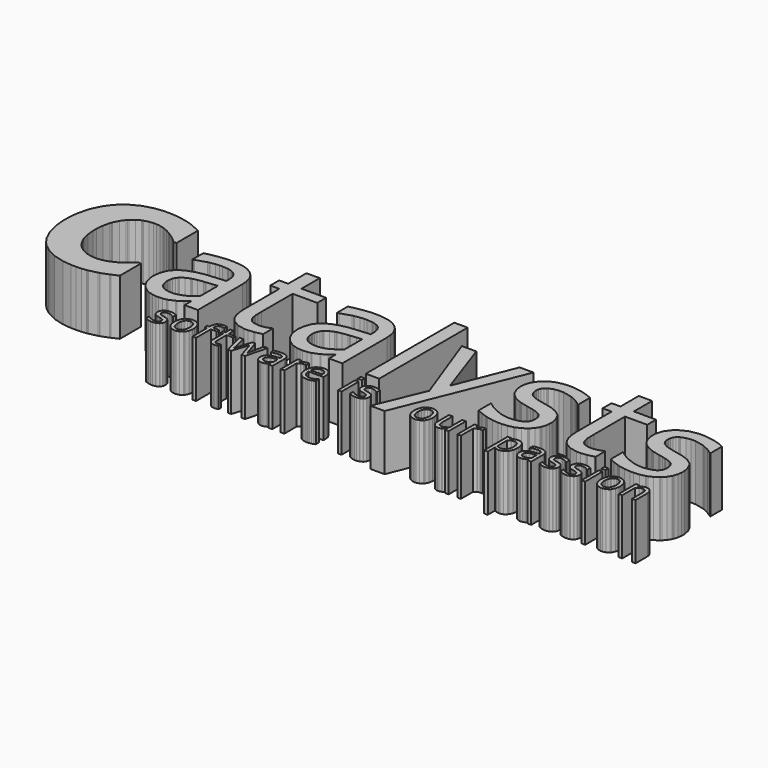
from build123d import *

# Parameters (mm, degrees)
F0_W     = 1.64973
F0_H     = 9.807473
F0_W_2   = 6.118606
F0_H_2   = 50.487123
F0_W_3   = 1.87833
F0_H_3   = 1.712899
F0_W_4   = 1.651
F0_W_5   = 1.8796
F1_DEPTH = 25.4


with BuildPart() as f1:
    # F0 (on Top) → F1 (new body)
    with BuildSketch(Plane.XY):
        Polygon((-6.717741, -11.888368), (-6.592265, -11.798706), (-6.592265, -15.650286), (-0.519125, -15.650286), (-0.519125, 9.140546), (-0.519125, 9.927692), (-0.760425, 12.28532), (-1.328115, 14.52179), (-1.491945, 14.917268), (-1.651965, 15.31427), (-2.711653, 17.0656), (-4.110431, 18.52229), (-4.438345, 18.770448), (-4.778959, 19.025464), (-6.611569, 20.0628), (-8.615375, 20.782128), (-9.039809, 20.878902), (-9.470847, 20.980756), (-11.900357, 21.32645), (-14.480235, 21.46742), (-15.338501, 21.46742), (-16.766235, 21.46742), (-21.049437, 20.980756), (-21.570137, 20.878902), (-22.097949, 20.782128), (-24.358041, 20.320864), (-26.119023, 19.892112), (-26.396137, 19.812102), (-26.396137, 13.627456), (-26.057047, 13.627456), (-25.581559, 13.82583), (-20.823123, 15.338908), (-20.346365, 15.439746), (-19.871131, 15.548458), (-17.678603, 15.919298), (-15.958769, 16.074746), (-15.384221, 16.074746), (-14.583359, 16.074746), (-12.177471, 15.887548), (-11.893499, 15.84767), (-11.616385, 15.808808), (-10.347401, 15.4781), (-9.237929, 14.97645), (-9.039809, 14.851228), (-8.846769, 14.732864), (-8.004759, 13.98712), (-7.333691, 13.050114), (-7.225995, 12.833706), (-7.118553, 12.613234), (-6.748221, 11.305642), (-6.592265, 9.851746), (-6.592265, 9.366606), (-6.592265, 8.1883), (-7.391603, 8.149946), (-14.852091, 7.487006), (-15.542463, 7.396074), (-16.234359, 7.312), (-19.417741, 6.654648), (-22.238665, 5.702402), (-22.748443, 5.469484), (-23.160431, 5.283556), (-24.350929, 4.62468), (-25.723545, 3.646272), (-26.866037, 2.53299), (-27.579523, 1.609446), (-27.778151, 1.278992), (-28.040025, 0.836524), (-28.963315, -1.648104), (-29.365651, -4.263542), (-29.365651, -5.135778), (-29.365651, -5.729884), (-29.145179, -7.514234), (-28.628543, -9.395358), (-28.480969, -9.759086), (-28.334919, -10.127132), (-27.459635, -11.782196), (-26.390549, -13.200278), (-26.146709, -13.449706), (-25.892963, -13.704468), (-24.499773, -14.808327), (-22.947071, -15.672359), (-22.611791, -15.808808), (-22.278543, -15.949346), (-20.542199, -16.45097), (-18.900851, -16.670071), (-18.352465, -16.670071), (-17.748707, -16.670071), (-15.936671, -16.552926), (-14.369745, -16.289706), (-14.114729, -16.216681), (-13.866825, -16.136747), (-11.259769, -15.043988), (-10.986719, -14.902028), (-10.795203, -14.805584), (-8.790381, -13.50203), (-8.586165, -13.337946), (-8.376869, -13.173862), (-7.461707, -12.457328), align=None)
        Polygon((-6.592265, 3.339186), (-6.592265, -6.722008), (-6.932625, -7.027824), (-8.702243, -8.407298), (-10.574731, -9.593732), (-10.964875, -9.803282), (-11.356035, -10.007244), (-13.435787, -10.73216), (-15.491663, -11.049152), (-16.176447, -11.049152), (-16.576243, -11.049152), (-17.772329, -10.947044), (-19.157137, -10.646562), (-20.339507, -10.1505), (-21.098713, -9.660026), (-21.320709, -9.462922), (-21.535847, -9.265818), (-22.081185, -8.569858), (-22.627031, -7.488072), (-22.956469, -6.216294), (-23.065181, -5.116474), (-23.065181, -4.749952), (-23.065181, -4.424832), (-22.967391, -3.448964), (-22.672497, -2.300122), (-22.176435, -1.298092), (-21.674785, -0.635152), (-21.478951, -0.44516), (-21.213013, -0.190144), (-19.675297, 0.895706), (-17.853609, 1.721206), (-17.445685, 1.845158), (-17.106595, 1.947012), (-15.083485, 2.387956), (-12.630607, 2.738476), (-12.075363, 2.794864), (-11.520119, 2.852522), (-9.037015, 3.10195), (-6.949135, 3.305912), align=None, mode=Mode.SUBTRACT)
        Polygon((-72.637345, -11.888368), (-72.512123, -11.798706), (-72.512123, -15.650286), (-66.439237, -15.650286), (-66.439237, 9.140546), (-66.439237, 9.927692), (-66.680029, 12.28532), (-67.249497, 14.52179), (-67.413073, 14.917268), (-67.571823, 15.31427), (-68.631765, 17.0656), (-70.030035, 18.52229), (-70.358203, 18.770448), (-70.698563, 19.025464), (-72.531173, 20.0628), (-74.534979, 20.782128), (-74.959413, 20.878902), (-75.390959, 20.980756), (-77.820215, 21.32645), (-80.400093, 21.46742), (-81.258359, 21.46742), (-82.686093, 21.46742), (-86.969041, 20.980756), (-87.490249, 20.878902), (-88.017807, 20.782128), (-90.280693, 20.320864), (-92.056915, 19.892112), (-92.339363, 19.812102), (-92.339363, 13.627456), (-91.976651, 13.627456), (-91.501671, 13.82583), (-86.742981, 15.338908), (-86.266223, 15.439746), (-85.790735, 15.548458), (-83.598207, 15.919298), (-81.878373, 16.074746), (-81.303825, 16.074746), (-80.503471, 16.074746), (-78.097329, 15.887548), (-77.813357, 15.84767), (-77.536497, 15.808808), (-76.268529, 15.4781), (-75.158041, 14.97645), (-74.959413, 14.851228), (-74.766373, 14.732864), (-73.925887, 13.98712), (-73.254819, 13.050114), (-73.145853, 12.833706), (-73.038665, 12.613234), (-72.667825, 11.305642), (-72.512123, 9.851746), (-72.512123, 9.366606), (-72.512123, 8.1883), (-73.311207, 8.149946), (-80.772203, 7.487006), (-81.462575, 7.396074), (-82.154471, 7.312), (-85.337345, 6.654648), (-88.158269, 5.702402), (-88.668047, 5.469484), (-89.080035, 5.283556), (-90.270787, 4.62468), (-91.643403, 3.646272), (-92.785641, 2.53299), (-93.501159, 1.609446), (-93.699279, 1.278992), (-93.965471, 0.836524), (-94.891301, -1.648104), (-95.285509, -4.263542), (-95.285509, -5.135778), (-95.285509, -5.729884), (-95.065037, -7.514234), (-94.548147, -9.395358), (-94.400573, -9.759086), (-94.254523, -10.127132), (-93.379747, -11.782196), (-92.311931, -13.200278), (-92.067837, -13.449706), (-91.812821, -13.704468), (-90.419631, -14.808327), (-88.866675, -15.672359), (-88.531903, -15.808808), (-88.198147, -15.949346), (-86.461803, -16.45097), (-84.820709, -16.670071), (-84.272069, -16.670071), (-83.668819, -16.670071), (-81.856529, -16.552926), (-80.289603, -16.289706), (-80.034841, -16.216681), (-79.785413, -16.136747), (-77.180897, -15.043988), (-76.907847, -14.902028), (-76.715315, -14.805584), (-74.709985, -13.50203), (-74.504753, -13.337946), (-74.295203, -13.173862), (-73.381565, -12.457328), align=None)
        Polygon((-72.512123, 3.339186), (-72.512123, -6.722008), (-72.852229, -7.027824), (-74.621847, -8.407298), (-76.494843, -9.593732), (-76.884479, -9.803282), (-77.275893, -10.007244), (-79.363519, -10.73216), (-81.414315, -11.049152), (-82.096051, -11.049152), (-82.495847, -11.049152), (-83.692187, -10.947044), (-85.076995, -10.646562), (-86.259365, -10.1505), (-87.018825, -9.660026), (-87.240821, -9.462922), (-87.455451, -9.265818), (-88.001297, -8.569858), (-88.547143, -7.488072), (-88.876073, -6.216294), (-88.985293, -5.116474), (-88.985293, -4.749952), (-88.985293, -4.424832), (-88.886995, -3.448964), (-88.592609, -2.300122), (-88.096293, -1.298092), (-87.594643, -0.635152), (-87.399063, -0.44516), (-87.133125, -0.190144), (-85.594901, 0.895706), (-83.774737, 1.721206), (-83.366813, 1.845158), (-83.027723, 1.947012), (-81.003597, 2.387956), (-78.550719, 2.738476), (-77.995221, 2.794864), (-77.441247, 2.852522), (-74.965001, 3.10195), (-72.874581, 3.305912), align=None, mode=Mode.SUBTRACT)
        Polygon((107.185003, -16.670071), (108.294983, -16.670071), (109.036663, -16.670071), (111.264243, -16.426155), (111.558883, -16.375151), (111.850983, -16.328314), (114.764363, -15.70543), (115.046303, -15.626867), (115.046303, -10.142372), (114.683083, -10.142372), (114.581483, -10.187838), (113.882983, -10.461904), (112.922863, -10.794136), (112.691723, -10.868558), (112.458043, -10.941456), (110.514943, -11.29985), (109.791043, -11.29985), (109.316063, -11.29985), (107.901283, -11.160658), (106.661763, -10.82868), (106.458563, -10.73216), (106.247743, -10.641228), (105.384397, -10.03493), (104.758541, -9.224416), (104.667863, -9.0329), (104.560421, -8.816492), (104.157831, -7.689494), (103.937359, -6.494678), (103.920849, -6.24652), (103.903069, -5.995822), (103.849221, -4.42915), (103.830171, -2.595016), (103.830171, -1.9844), (103.830171, 15.2368), (113.979503, 15.2368), (113.979503, 20.290384), (103.830171, 20.290384), (103.830171, 30.712512), (97.711565, 30.712512), (97.711565, 20.290384), (93.610481, 20.290384), (93.610481, 15.2368), (97.711565, 15.2368), (97.711565, -4.840884), (97.711565, -5.557672), (97.885047, -7.708798), (98.410065, -10.160152), (99.288143, -12.195454), (100.164443, -13.457834), (100.521313, -13.814704), (100.985625, -14.290192), (103.854809, -15.954858), align=None)
        Polygon((-44.504813, -16.670071), (-43.391531, -16.670071), (-42.649851, -16.670071), (-40.423287, -16.426155), (-40.128393, -16.375151), (-39.834769, -16.328314), (-36.928247, -15.70543), (-36.638941, -15.626867), (-36.638941, -10.142372), (-37.001399, -10.142372), (-37.103253, -10.187838), (-37.814453, -10.461904), (-38.786003, -10.794136), (-39.017397, -10.868558), (-39.250315, -10.941456), (-41.175381, -11.29985), (-41.894709, -11.29985), (-42.371721, -11.29985), (-43.801995, -11.160658), (-45.045071, -10.82868), (-45.248779, -10.73216), (-45.452741, -10.641228), (-46.314309, -10.03493), (-46.949563, -9.224416), (-47.038971, -9.0329), (-47.147937, -8.816492), (-47.550273, -7.689494), (-47.770745, -6.494678), (-47.787509, -6.24652), (-47.805035, -5.995822), (-47.859137, -4.42915), (-47.878187, -2.595016), (-47.878187, -1.9844), (-47.878187, 15.2368), (-36.638941, 15.2368), (-36.638941, 20.290384), (-47.878187, 20.290384), (-47.878187, 30.712512), (-53.973425, 30.712512), (-53.973425, 20.290384), (-58.097623, 20.290384), (-58.097623, 15.2368), (-53.973425, 15.2368), (-53.973425, -4.840884), (-53.973425, -5.557672), (-53.799943, -7.708798), (-53.277465, -10.160152), (-52.406499, -12.195454), (-51.539597, -13.456564), (-51.186791, -13.814704), (-50.722479, -14.290192), (-47.841103, -15.954858), align=None)
        Polygon((-123.414053, -16.670071), (-122.051267, -16.670071), (-121.231355, -16.670071), (-118.771365, -16.579139), (-116.623033, -16.351733), (-116.271751, -16.284194), (-115.921739, -16.222193), (-112.183113, -15.315438), (-111.786365, -15.196947), (-111.458197, -15.100452), (-108.267957, -13.909954), (-107.956553, -13.769238), (-107.650737, -13.627252), (-104.931921, -12.381636), (-104.693415, -12.274194), (-104.693415, -0.263042), (-105.871721, -0.263042), (-106.029963, -0.404774), (-107.922263, -2.029866), (-108.137147, -2.21173), (-108.353301, -2.39207), (-110.869679, -4.20563), (-111.152381, -4.387748), (-111.418319, -4.557166), (-112.920221, -5.357774), (-114.646913, -6.104534), (-115.025881, -6.24652), (-115.411707, -6.387236), (-117.392145, -6.87644), (-119.255235, -7.084466), (-119.875249, -7.084466), (-120.488405, -7.084466), (-122.324063, -6.873646), (-124.362134, -6.369202), (-124.770007, -6.223152), (-125.177931, -6.081166), (-127.109957, -5.102758), (-128.883486, -3.775608), (-129.211451, -3.45887), (-129.557348, -3.124098), (-131.082847, -1.146454), (-132.334076, 1.239114), (-132.54355, 1.776324), (-132.758536, 2.320646), (-133.499885, 5.413096), (-133.811315, 8.702396), (-133.811315, 9.797898), (-133.811315, 10.857586), (-133.517818, 14.03538), (-132.815, 17.105478), (-132.611063, 17.659706), (-132.407127, 18.216474), (-131.21513, 20.652842), (-129.784729, 22.634296), (-129.460879, 22.962464), (-129.10947, 23.32035), (-127.30287, 24.796598), (-125.427359, 25.853492), (-125.041508, 25.999542), (-124.657028, 26.141528), (-122.612099, 26.644448), (-120.611087, 26.861872), (-119.942813, 26.861872), (-119.373599, 26.861872), (-117.666211, 26.67188), (-115.819631, 26.221284), (-115.457173, 26.090474), (-115.100303, 25.966268), (-113.404091, 25.24694), (-111.831831, 24.414836), (-111.536937, 24.232718), (-111.236201, 24.04679), (-108.573773, 22.160078), (-108.341109, 21.967292), (-108.109715, 21.77984), (-107.056631, 20.913192), (-106.160773, 20.135952), (-106.006595, 19.99422), (-104.693415, 19.99422), (-104.693415, 32.186728), (-104.909569, 32.294424), (-106.173219, 32.897928), (-107.685281, 33.579918), (-108.024371, 33.726476), (-108.370065, 33.87913), (-110.016747, 34.534958), (-111.560051, 35.06404), (-111.853675, 35.153702), (-112.222991, 35.25708), (-116.114525, 36.049306), (-116.522449, 36.106202), (-116.924785, 36.164114), (-119.103597, 36.362234), (-121.280885, 36.446308), (-122.005801, 36.446308), (-123.372702, 36.446308), (-127.469621, 35.995712), (-132.339613, 34.6424), (-136.614281, 32.384086), (-139.469571, 30.099102), (-140.292252, 29.217214), (-141.131468, 28.329992), (-143.26329, 25.302312), (-145.379973, 20.762824), (-146.647764, 15.60764), (-147.068057, 11.284814), (-147.068057, 9.843364), (-147.068057, 8.356448), (-146.647764, 3.891636), (-145.382742, -1.35321), (-143.272967, -5.88965), (-141.153515, -8.85383), (-140.314299, -9.71362), (-139.48885, -10.564012), (-136.636328, -12.75908), (-132.364404, -14.933727), (-127.502666, -16.235985), align=None)
        with Locations((12.056034, -27.923807)):
            Rectangle(F0_W, F0_H)
        Polygon((34.240521, -34.94974), (57.114491, 21.40519), (50.769825, 21.40519), (40.232127, -5.130444), (31.010403, 21.40519), (24.416309, 21.40519), (36.924793, -12.78956), (27.735835, -34.94974), align=None)
        with Locations((14.083716, 8.574863)):
            Rectangle(F0_W_2, F0_H_2)
        Polygon((-31.151525, -32.827544), (-28.666897, -23.020071), (-30.326025, -23.020071), (-31.958991, -30.615814), (-34.348623, -23.020071), (-35.710063, -23.020071), (-38.036195, -30.615814), (-39.765681, -23.020071), (-41.486785, -23.020071), (-38.975995, -32.827544), (-37.457329, -32.827544), (-35.077603, -25.267666), (-32.679843, -32.827544), align=None)
        Polygon((70.830237, -24.7936), (70.918375, -24.7936), (70.918375, -23.07242), (70.890943, -23.066934), (70.653707, -23.033838), (70.632879, -23.032466), (70.611035, -23.029697), (70.345097, -23.020071), (70.249847, -23.020071), (69.951143, -23.020071), (69.057825, -23.294289), (68.946319, -23.349433), (68.833543, -23.403154), (68.216069, -23.795914), (67.520109, -24.344376), (67.369741, -24.478031), (67.369741, -23.020071), (65.718741, -23.020071), (65.718741, -32.827544), (67.369741, -32.827544), (67.369741, -25.864337), (67.467531, -25.76924), (68.506899, -25.051309), (68.616881, -25.003074), (68.725847, -24.954814), (69.610529, -24.715064), (69.942507, -24.715064), (70.056807, -24.715064), (70.404279, -24.72469), (70.438569, -24.727459), (70.473113, -24.72883), (70.798487, -24.783974), align=None)
        Polygon((145.417083, -32.827544), (147.068083, -32.827544), (147.068083, -26.462406), (147.068083, -26.062788), (146.862343, -24.866625), (146.387363, -23.857915), (146.252743, -23.699419), (146.115583, -23.540949), (145.274843, -22.985603), (144.307103, -22.747199), (143.984523, -22.747199), (143.634003, -22.747199), (142.584983, -23.039375), (142.465603, -23.098608), (142.346223, -23.156494), (141.129563, -23.998479), (141.007643, -24.108715), (141.007643, -23.020071), (139.356643, -23.020071), (139.356643, -32.827544), (141.007643, -32.827544), (141.007643, -25.504648), (141.111783, -25.416459), (142.176043, -24.702643), (142.285263, -24.648922), (142.394483, -24.593779), (143.235223, -24.31956), (143.555263, -24.31956), (143.783863, -24.31956), (144.477283, -24.46975), (144.538243, -24.500078), (144.596663, -24.529009), (145.066563, -24.986539), (145.102123, -25.04854), (145.130063, -25.106401), (145.338343, -25.885013), (145.351043, -25.982854), (145.361203, -26.079298), (145.417083, -26.926794), (145.417083, -27.242364), align=None)
        Polygon((-9.759137, -24.7936), (-9.670745, -24.7936), (-9.670745, -23.07242), (-9.698431, -23.066934), (-9.935413, -23.033838), (-9.955987, -23.032466), (-9.978085, -23.029697), (-10.242753, -23.020071), (-10.337749, -23.020071), (-10.636707, -23.020071), (-11.531041, -23.294289), (-11.642801, -23.349433), (-11.755831, -23.403154), (-12.373051, -23.795914), (-13.069265, -24.344376), (-13.219125, -24.478031), (-13.219125, -23.020071), (-14.870125, -23.020071), (-14.870125, -32.827544), (-13.219125, -32.827544), (-13.219125, -25.864337), (-13.121335, -25.76924), (-12.082475, -25.051309), (-11.971985, -25.003074), (-11.863273, -24.954814), (-10.978591, -24.715064), (-10.646359, -24.715064), (-10.532059, -24.715064), (-10.184841, -24.72469), (-10.148773, -24.727459), (-10.115753, -24.72883), (-9.790887, -24.783974), align=None)
        with Locations((12.056034, -20.520978)):
            Rectangle(F0_W_3, F0_H_3)
        Polygon((60.150299, -32.827544), (61.801299, -32.827544), (61.801299, -23.020071), (60.150299, -23.020071), (60.150299, -30.342967), (60.055303, -30.425644), (59.007807, -31.128411), (58.895031, -31.186323), (58.780477, -31.242838), (57.926275, -31.52808), (57.603949, -31.52808), (57.368237, -31.52808), (56.665165, -31.382005), (56.608777, -31.353074), (56.549341, -31.322747), (56.091887, -30.862473), (56.059121, -30.800472), (56.024577, -30.735702), (55.808169, -29.984675), (55.799787, -29.899229), (55.790135, -29.813809), (55.743399, -28.92773), (55.743399, -28.60388), (55.743399, -23.020071), (54.092399, -23.020071), (54.092399, -29.386581), (54.092399, -29.777944), (54.285185, -30.956199), (54.324047, -31.071947), (54.362655, -31.187695), (54.908247, -32.145453), (54.978351, -32.222592), (55.048709, -32.298386), (55.871415, -32.853757), (55.966665, -32.889571), (56.060391, -32.924039), (56.871921, -33.100416), (57.173927, -33.100416), (57.526479, -33.100416), (58.587691, -32.811034), (58.701991, -32.753148), (58.815021, -32.695261), (60.022029, -31.849136), (60.150299, -31.7389), align=None)
        Polygon((131.561383, -16.670071), (132.442763, -16.670071), (133.288583, -16.670071), (135.826043, -16.453714), (138.175543, -15.965881), (138.581943, -15.830855), (138.995963, -15.688894), (140.918743, -14.78214), (142.671343, -13.627252), (143.001543, -13.361314), (143.293643, -13.111886), (144.561103, -11.711838), (145.544083, -10.109098), (145.696483, -9.757816), (145.851423, -9.411868), (146.389903, -7.616342), (146.626123, -5.908954), (146.626123, -5.33974), (146.626123, -4.438548), (146.115583, -1.737766), (144.926863, 0.63815), (144.589043, 1.02804), (144.253763, 1.41412), (142.071903, 3.024734), (139.211863, 4.194912), (138.536223, 4.358742), (138.231423, 4.438752), (135.300263, 5.09458), (135.023403, 5.151476), (134.746543, 5.209134), (132.214163, 5.797652), (131.988103, 5.85404), (131.533443, 5.973928), (129.641143, 6.671158), (128.231443, 7.503262), (128.023163, 7.690968), (127.819963, 7.87842), (127.103683, 9.100668), (126.798883, 10.592918), (126.798883, 11.089234), (126.798883, 11.388192), (126.928423, 12.283796), (127.314503, 13.318846), (127.964743, 14.19667), (128.635303, 14.7669), (128.884223, 14.918792), (129.229663, 15.128342), (131.193083, 15.857068), (133.268263, 16.165678), (133.961683, 16.165678), (135.290103, 16.165678), (139.277903, 15.280996), (139.760503, 15.099386), (140.243103, 14.92438), (142.501163, 13.84234), (144.581423, 12.489028), (144.972583, 12.176608), (145.290083, 12.176608), (145.290083, 18.702884), (144.944643, 18.89567), (142.973603, 19.746062), (140.679983, 20.459802), (140.169443, 20.584008), (139.658903, 20.70923), (135.612683, 21.330768), (134.096303, 21.330768), (132.714543, 21.330768), (128.574343, 20.56445), (124.878643, 18.76613), (124.261423, 18.24924), (123.644203, 17.733874), (121.487743, 14.713306), (120.568263, 11.385398), (120.568263, 10.274656), (120.568263, 9.447886), (121.040703, 6.963258), (122.135443, 4.597248), (122.447863, 4.176878), (122.760283, 3.757778), (124.891343, 1.99832), (127.784403, 0.667106), (128.475283, 0.461874), (128.741983, 0.388976), (131.647743, -0.308508), (131.965243, -0.377342), (132.277663, -0.439572), (133.661963, -0.732942), (134.810043, -1.005992), (135.003083, -1.056792), (135.506003, -1.180998), (137.568483, -1.891944), (139.018823, -2.72735), (139.216943, -2.914548), (139.407443, -3.094888), (140.095783, -4.273194), (140.395503, -5.700928), (140.395503, -6.177686), (140.395503, -6.547002), (140.271043, -7.659014), (139.981483, -8.574176), (139.897663, -8.715908), (139.811303, -8.856624), (139.229643, -9.53328), (138.434623, -10.175392), (138.241583, -10.300868), (138.112043, -10.384942), (137.230663, -10.774832), (136.067343, -11.10681), (135.795563, -11.163452), (135.516163, -11.21984), (133.448603, -11.502288), (132.668823, -11.502288), (131.777283, -11.502288), (129.105203, -11.049152), (128.792783, -10.95949), (128.482903, -10.868558), (125.633023, -9.80887), (125.371403, -9.690252), (125.076763, -9.553854), (123.786443, -8.891168), (122.734883, -8.250326), (122.559623, -8.12612), (122.384363, -8.000898), (120.855283, -6.868058), (120.725743, -6.767474), (120.408243, -6.767474), (120.408243, -13.609472), (120.753683, -13.796924), (122.752663, -14.68567), (125.117403, -15.529052), (125.645723, -15.694406), (126.171503, -15.858414), (128.922323, -16.427526), align=None)
        with Locations((123.286063, -27.923807)):
            Rectangle(F0_W_4, F0_H)
        Polygon((-50.278741, -20.744891), (-50.191873, -20.744891), (-50.191873, -19.234582), (-50.252579, -19.223558), (-50.918313, -19.132601), (-50.991465, -19.124346), (-51.064363, -19.116091), (-51.663803, -19.076111), (-51.887069, -19.076111), (-52.238351, -19.076111), (-53.292451, -19.306235), (-54.185515, -19.845071), (-54.327501, -19.999401), (-54.469487, -20.152385), (-54.966819, -21.133537), (-55.179163, -22.303486), (-55.179163, -22.694849), (-55.179163, -23.020071), (-56.295493, -23.020071), (-56.295493, -24.389842), (-55.179163, -24.389842), (-55.179163, -32.828941), (-53.528163, -32.828941), (-53.528163, -24.389842), (-50.850749, -24.389842), (-50.850749, -23.020071), (-53.580487, -23.020071), (-53.580487, -22.685172), (-53.580487, -22.424771), (-53.470251, -21.644762), (-53.212441, -21.063255), (-53.138273, -20.986064), (-53.065375, -20.907527), (-52.544421, -20.633284), (-51.874623, -20.516164), (-51.650087, -20.516164), (-51.483209, -20.516164), (-50.980035, -20.579563), (-50.911201, -20.591983), (-50.843891, -20.602981), (-50.316079, -20.73115), align=None)
        Polygon((71.293025, -16.670071), (72.173643, -16.670071), (73.017177, -16.670071), (75.550065, -16.453714), (77.906169, -15.965881), (78.315363, -15.830855), (78.722271, -15.688894), (80.640225, -14.78214), (82.387491, -13.627252), (82.711341, -13.361314), (83.010553, -13.111886), (84.282585, -11.711838), (85.271915, -10.109098), (85.430157, -9.757816), (85.583319, -9.411868), (86.112655, -7.616342), (86.337191, -5.908954), (86.337191, -5.33974), (86.337191, -4.438548), (85.838335, -1.737766), (84.658759, 0.63815), (84.319669, 1.02804), (83.979309, 1.41412), (81.786781, 3.024734), (78.938425, 4.194912), (78.270405, 4.358742), (77.958747, 4.438752), (75.016665, 5.09458), (74.733963, 5.151476), (74.455579, 5.209134), (71.946313, 5.797652), (71.720253, 5.85404), (71.261275, 5.973928), (69.355513, 6.671158), (67.959529, 7.503262), (67.755821, 7.690968), (67.551859, 7.87842), (66.826943, 9.100668), (66.510205, 10.592918), (66.510205, 11.089234), (66.510205, 11.388192), (66.641015, 12.283796), (67.032175, 13.318846), (67.684193, 14.19667), (68.348403, 14.7669), (68.593513, 14.918792), (68.937937, 15.128342), (70.904659, 15.857068), (72.994825, 16.165678), (73.692309, 16.165678), (75.022253, 16.165678), (79.011577, 15.280996), (79.493669, 15.099386), (79.969157, 14.92438), (82.223915, 13.84234), (84.296301, 12.489028), (84.682127, 12.176608), (85.022487, 12.176608), (85.022487, 18.702884), (84.676793, 18.89567), (82.696101, 19.746062), (80.388003, 20.459802), (79.879749, 20.584008), (79.375051, 20.70923), (75.340515, 21.330768), (73.828707, 21.330768), (73.098203, 21.330768), (70.907199, 21.140522), (68.298619, 20.56445), (65.994585, 19.601028), (64.453821, 18.63532), (63.993827, 18.24924), (63.376353, 17.733874), (61.209987, 14.713306), (60.278569, 11.385398), (60.278569, 10.274656), (60.278569, 9.447886), (60.753803, 6.963258), (61.863275, 4.597248), (62.181537, 4.176878), (62.492941, 3.757778), (64.624763, 1.99832), (67.515791, 0.667106), (68.207687, 0.461874), (68.473625, 0.388976), (71.364653, -0.308508), (71.676057, -0.377342), (71.987715, -0.439572), (73.374047, -0.732942), (74.535843, -1.005992), (74.733963, -1.056792), (75.238407, -1.180998), (77.288949, -1.891944), (78.728875, -2.72735), (78.927503, -2.914548), (79.124353, -3.094888), (79.812185, -4.273194), (80.104285, -5.700928), (80.104285, -6.177686), (80.104285, -6.547002), (79.981603, -7.659014), (79.691027, -8.574176), (79.606953, -8.715908), (79.521101, -8.856624), (78.944013, -9.53328), (78.161185, -10.175392), (77.975257, -10.300868), (77.838859, -10.384942), (76.951129, -10.774832), (75.782729, -11.10681), (75.505869, -11.163452), (75.227485, -11.21984), (73.176943, -11.502288), (72.401227, -11.502288), (71.902371, -11.502288), (70.408343, -11.36589), (68.813985, -11.049152), (68.502581, -10.95949), (68.196765, -10.868558), (65.341297, -9.80887), (65.080947, -9.690252), (64.791641, -9.553854), (63.518085, -8.891168), (62.469319, -8.250326), (62.294313, -8.12612), (62.118037, -8.000898), (60.588449, -6.868058), (60.458909, -6.767474), (60.118549, -6.767474), (60.118549, -13.609472), (60.463227, -13.796924), (62.474907, -14.68567), (64.848029, -15.529052), (65.375841, -15.694406), (65.902129, -15.858414), (68.655743, -16.427526), align=None)
        Polygon((-45.435215, -33.021854), (-45.133209, -33.021854), (-44.933565, -33.021854), (-44.329807, -32.958456), (-44.249797, -32.947458), (-44.171565, -32.933665), (-43.384419, -32.7628), (-43.305679, -32.740752), (-43.305679, -31.25658), (-43.402453, -31.25658), (-43.431409, -31.269), (-43.884545, -31.432983), (-43.946775, -31.453658), (-44.010275, -31.472937), (-44.533769, -31.572175), (-44.728079, -31.572175), (-44.941693, -31.572175), (-45.578471, -31.444006), (-45.633335, -31.419216), (-45.689723, -31.393003), (-46.092313, -31.008549), (-46.116951, -30.957571), (-46.145907, -30.898313), (-46.314309, -30.26852), (-46.318373, -30.202378), (-46.323707, -30.134865), (-46.344535, -29.339743), (-46.344535, -29.053104), (-46.344535, -24.389842), (-43.305679, -24.389842), (-43.305679, -23.020071), (-46.344535, -23.020071), (-46.344535, -20.200595), (-47.995281, -20.200595), (-47.995281, -23.020071), (-49.110341, -23.020071), (-49.110341, -24.389842), (-47.995281, -24.389842), (-47.995281, -29.824807), (-47.995281, -30.183125), (-47.807829, -31.262091), (-47.366885, -32.124777), (-47.240393, -32.252895), (-47.114663, -32.379691), (-46.336153, -32.828941), align=None)
        Polygon((89.105537, -28.213888), (89.105537, -27.664029), (89.105537, -27.15829), (88.868809, -25.645237), (88.318899, -24.303025), (88.161927, -24.081156), (88.003177, -23.857915), (87.031627, -23.080675), (85.907169, -22.747199), (85.532265, -22.747199), (85.153297, -22.747199), (84.018171, -23.057256), (83.893965, -23.120655), (83.768235, -23.182656), (82.630315, -23.954359), (82.528207, -24.046688), (82.528207, -23.020071), (80.877207, -23.020071), (80.877207, -36.446308), (82.528207, -36.446308), (82.528207, -32.336969), (82.625997, -32.394855), (83.585355, -32.826173), (83.679081, -32.855129), (83.772553, -32.882688), (84.646313, -33.021854), (84.968893, -33.021854), (85.378087, -33.021854), (86.605669, -32.658075), (87.736985, -31.809182), (87.932819, -31.568009), (88.127129, -31.32549), (88.811913, -29.864761), align=None)
        Polygon((87.402213, -27.475282), (87.402213, -27.848712), (87.402213, -28.245587), (87.224413, -29.440353), (86.809885, -30.440782), (86.691521, -30.597881), (86.572903, -30.753609), (85.837065, -31.302071), (84.981085, -31.537707), (84.697113, -31.537707), (84.450479, -31.537707), (83.714641, -31.441263), (83.638949, -31.423356), (83.561987, -31.404052), (82.635903, -31.04576), (82.528207, -30.993385), (82.528207, -25.434366), (82.625997, -25.351689), (83.661047, -24.681967), (83.771029, -24.63099), (83.880249, -24.578615), (84.788299, -24.31956), (85.127135, -24.31956), (85.386215, -24.31956), (86.163709, -24.551056), (86.776865, -25.091263), (86.866527, -25.245619), (86.954665, -25.399949), (87.267085, -26.359053), align=None, mode=Mode.SUBTRACT)
        with Locations((123.286063, -20.520978)):
            Rectangle(F0_W_5, F0_H_3)
        Polygon((50.939497, -28.477083), (50.939497, -27.928621), (50.939497, -27.380159), (50.639015, -25.737566), (49.941785, -24.330584), (49.743157, -24.104575), (49.543513, -23.877219), (48.351491, -23.086212), (47.012149, -22.747199), (46.565363, -22.747199), (46.119085, -22.747199), (44.781013, -23.086212), (43.583403, -23.881334), (43.382235, -24.108715), (43.181321, -24.334699), (42.475709, -25.743052), (42.173703, -27.38153), (42.173703, -27.928621), (42.173703, -28.463316), (42.465803, -30.067352), (43.150841, -31.475705), (43.346421, -31.708598), (43.540731, -31.940094), (44.737071, -32.751776), (46.108163, -33.100416), (46.565363, -33.100416), (47.012149, -33.100416), (48.351491, -32.7628), (49.543513, -31.977305), (49.743157, -31.752692), (49.941785, -31.52808), (50.639015, -30.12247), align=None)
        Polygon((49.234903, -27.512442), (49.234903, -27.928621), (49.234903, -28.339288), (49.059897, -29.571264), (48.652227, -30.586883), (48.536149, -30.743957), (48.418801, -30.899684), (47.694393, -31.444006), (46.846541, -31.67827), (46.565363, -31.67827), (46.279105, -31.67827), (45.421855, -31.438469), (44.692875, -30.883149), (44.577305, -30.724678), (44.459957, -30.566208), (44.051779, -29.549217), (43.878297, -28.333776), (43.878297, -27.928621), (43.878297, -27.512442), (44.051779, -26.266724), (44.459957, -25.251105), (44.577305, -25.096775), (44.692875, -24.942419), (45.421855, -24.40084), (46.279105, -24.169345), (46.565363, -24.169345), (46.848065, -24.169345), (47.699727, -24.40084), (48.425913, -24.942419), (48.541737, -25.096775), (48.656037, -25.251105), (49.061421, -26.266724), align=None, mode=Mode.SUBTRACT)
        Polygon((136.133383, -28.477083), (136.133383, -27.928621), (136.133383, -27.380159), (135.833663, -25.737566), (135.137703, -24.330584), (134.939583, -24.104575), (134.738923, -23.877219), (133.545123, -23.086212), (132.206543, -22.747199), (131.762043, -22.747199), (131.315003, -22.747199), (129.976423, -23.086212), (128.777543, -23.881334), (128.576883, -24.108715), (128.376223, -24.334699), (127.672643, -25.743052), (127.370383, -27.38153), (127.370383, -27.928621), (127.370383, -28.463316), (127.662483, -30.067352), (128.345743, -31.475705), (128.541323, -31.708598), (128.736903, -31.940094), (129.933243, -32.751776), (131.304843, -33.100416), (131.762043, -33.100416), (132.206543, -33.100416), (133.545123, -32.7628), (134.738923, -31.977305), (134.939583, -31.752692), (135.137703, -31.52808), (135.833663, -30.12247), align=None)
        Polygon((134.429043, -27.512442), (134.429043, -27.928621), (134.429043, -28.339288), (134.253783, -29.571264), (133.847383, -30.586883), (133.733083, -30.743957), (133.613703, -30.899684), (132.889803, -31.444006), (132.041443, -31.67827), (131.762043, -31.67827), (131.475023, -31.67827), (130.616503, -31.438469), (129.887523, -30.883149), (129.770683, -30.724678), (129.653843, -30.566208), (129.247443, -29.549217), (129.072183, -28.333776), (129.072183, -27.928621), (129.072183, -27.512442), (129.247443, -26.266724), (129.653843, -25.251105), (129.770683, -25.096775), (129.887523, -24.942419), (130.616503, -24.40084), (131.475023, -24.169345), (131.762043, -24.169345), (132.043983, -24.169345), (132.894883, -24.40084), (133.621323, -24.942419), (133.735623, -25.096775), (133.852463, -25.251105), (134.256323, -26.266724), align=None, mode=Mode.SUBTRACT)
        Polygon((-58.578445, -28.477083), (-58.578445, -27.928621), (-58.578445, -27.380159), (-58.877657, -25.737566), (-59.575141, -24.330584), (-59.773515, -24.104575), (-59.973413, -23.877219), (-61.165181, -23.086212), (-62.504523, -22.747199), (-62.951309, -22.747199), (-63.397841, -22.747199), (-64.735913, -23.086212), (-65.933269, -23.881334), (-66.134437, -24.108715), (-66.335859, -24.334699), (-67.041471, -25.743052), (-67.342969, -27.38153), (-67.342969, -27.928621), (-67.342969, -28.463316), (-67.050869, -30.067352), (-66.366085, -31.475705), (-66.170251, -31.708598), (-65.975941, -31.940094), (-64.780109, -32.751776), (-63.408763, -33.100416), (-62.951309, -33.100416), (-62.504523, -33.100416), (-61.165181, -32.7628), (-59.973413, -31.977305), (-59.773515, -31.752692), (-59.575141, -31.52808), (-58.877657, -30.12247), align=None)
        Polygon((-60.282023, -27.512442), (-60.282023, -27.928621), (-60.282023, -28.339288), (-60.457029, -29.571264), (-60.864953, -30.586883), (-60.980523, -30.743957), (-61.097871, -30.899684), (-61.822787, -31.444006), (-62.670131, -31.67827), (-62.951309, -31.67827), (-63.237821, -31.67827), (-64.095071, -31.438469), (-64.825321, -30.883149), (-64.941399, -30.724678), (-65.058493, -30.566208), (-65.464893, -29.549217), (-65.638375, -28.333776), (-65.638375, -27.928621), (-65.638375, -27.512442), (-65.464893, -26.266724), (-65.058493, -25.251105), (-64.941399, -25.096775), (-64.825321, -24.942419), (-64.095071, -24.40084), (-63.237821, -24.169345), (-62.951309, -24.169345), (-62.668607, -24.169345), (-61.817199, -24.40084), (-61.092029, -24.942419), (-60.976459, -25.096775), (-60.860635, -25.251105), (-60.455759, -26.266724), align=None, mode=Mode.SUBTRACT)
        Polygon((-3.210509, -33.056322), (-2.689809, -33.056322), (-2.459431, -33.056322), (-1.767535, -32.997064), (-1.701495, -32.98604), (-1.636725, -32.97362), (-0.907745, -32.805497), (-0.826465, -32.784847), (-0.769823, -32.768311), (-0.126441, -32.543699), (-0.054813, -32.516115), (0.016815, -32.487184), (0.617525, -32.250151), (0.665785, -32.230847), (0.665785, -30.431156), (0.569519, -30.431156), (0.534975, -30.458715), (0.110541, -30.75498), (0.059487, -30.78668), (0.007163, -30.816982), (-0.620979, -31.142229), (-0.695401, -31.176697), (-0.766013, -31.20837), (-1.552651, -31.472937), (-1.639519, -31.493612), (-1.727657, -31.514288), (-2.441651, -31.616269), (-2.707335, -31.616269), (-3.046425, -31.616269), (-4.062171, -31.388888), (-4.942535, -30.862473), (-5.086045, -30.712283), (-5.230825, -30.560696), (-5.732475, -29.60431), (-5.947359, -28.471597), (-5.947359, -28.095372), (0.849427, -28.095372), (0.849427, -27.199641), (0.849427, -26.735253), (0.614985, -25.346177), (0.569519, -25.211151), (0.522529, -25.074728), (-0.152603, -23.928197), (-0.239471, -23.835868), (-0.327609, -23.742142), (-1.351737, -23.054513), (-1.468831, -23.01179), (-1.585925, -22.967696), (-2.679903, -22.747199), (-3.083763, -22.747199), (-3.544265, -22.747199), (-4.920691, -23.101351), (-6.159703, -23.928197), (-6.368999, -24.16523), (-6.578295, -24.40084), (-7.311593, -25.827126), (-7.624521, -27.442185), (-7.624521, -27.981021), (-7.624521, -28.518434), (-7.301941, -30.134865), (-6.545275, -31.514288), (-6.329121, -31.734785), (-6.114237, -31.955257), (-4.771847, -32.725589), align=None)
        Polygon((-0.760425, -26.718692), (-0.757631, -26.830325), (-5.947359, -26.830325), (-5.939231, -26.725626), (-5.735015, -25.814706), (-5.701995, -25.737566), (-5.670245, -25.659004), (-5.200345, -24.945188), (-5.138369, -24.881789), (-5.076393, -24.818391), (-4.377893, -24.337442), (-4.300423, -24.305768), (-4.224731, -24.272672), (-3.461207, -24.108715), (-3.181553, -24.108715), (-2.921203, -24.108715), (-2.136851, -24.268557), (-2.061159, -24.301653), (-1.986737, -24.333327), (-1.368247, -24.800484), (-1.318463, -24.862485), (-1.275791, -24.917629), (-0.939495, -25.599771), (-0.915873, -25.681051), (-0.892759, -25.760985), align=None, mode=Mode.SUBTRACT)
        Polygon((-74.011485, -33.065949), (-73.551237, -33.065949), (-73.163887, -33.065949), (-71.999297, -32.875804), (-71.887791, -32.838593), (-71.777301, -32.799985), (-70.785431, -32.241896), (-70.697293, -32.168871), (-70.617029, -32.101358), (-70.006921, -31.292419), (-69.963995, -31.198744), (-69.922847, -31.103621), (-69.713297, -30.300244), (-69.713297, -30.001185), (-69.713297, -29.757294), (-69.851219, -29.025545), (-70.172275, -28.383382), (-70.263207, -28.278658), (-70.355409, -28.172537), (-70.947991, -27.737105), (-71.719643, -27.420138), (-71.900237, -27.376044), (-71.984057, -27.353971), (-72.779331, -27.17485), (-72.853753, -27.159687), (-72.929699, -27.144548), (-73.613213, -26.987449), (-73.673665, -26.972285), (-73.797871, -26.939189), (-74.690681, -26.524433), (-74.746053, -26.474801), (-74.802441, -26.423823), (-75.079301, -25.785775), (-75.079301, -25.557048), (-75.079301, -25.405461), (-74.938585, -24.950674), (-74.610925, -24.578615), (-74.517199, -24.522125), (-74.424743, -24.464239), (-73.483419, -24.178971), (-73.138995, -24.178971), (-72.779331, -24.178971), (-71.700593, -24.420144), (-71.571053, -24.468379), (-71.442529, -24.516639), (-70.268541, -25.173915), (-70.162369, -25.257989), (-70.074231, -25.257989), (-70.074231, -23.494111), (-70.167957, -23.441736), (-71.324165, -23.017328), (-71.462087, -22.984231), (-71.600009, -22.949764), (-72.693987, -22.783038), (-73.103181, -22.783038), (-73.478085, -22.783038), (-74.599495, -22.991115), (-75.597715, -23.47755), (-75.764085, -23.616768), (-75.930963, -23.755934), (-76.515163, -24.573103), (-76.766115, -25.474346), (-76.766115, -25.776149), (-76.766115, -25.999389), (-76.639369, -26.670483), (-76.341681, -27.309877), (-76.256337, -27.424253), (-76.172263, -27.537283), (-75.594921, -28.015438), (-74.810569, -28.37373), (-74.623371, -28.428874), (-74.551743, -28.449524), (-73.768915, -28.638297), (-73.683571, -28.656229), (-73.599497, -28.674162), (-72.911665, -28.828492), (-72.858071, -28.842284), (-72.722943, -28.87533), (-71.775015, -29.29288), (-71.720913, -29.342486), (-71.668843, -29.392118), (-71.399857, -30.006722), (-71.399857, -30.228591), (-71.399857, -30.389805), (-71.514157, -30.873497), (-71.536509, -30.912105), (-71.559623, -30.950662), (-71.929193, -31.310351), (-71.980247, -31.344794), (-72.017331, -31.366841), (-72.572575, -31.561151), (-72.646997, -31.577686), (-72.722943, -31.592825), (-73.279457, -31.668644), (-73.490531, -31.668644), (-73.731831, -31.668644), (-74.454969, -31.54459), (-74.539297, -31.5198), (-74.624641, -31.494984), (-75.396293, -31.20837), (-75.466651, -31.176697), (-75.546407, -31.13946), (-76.177597, -30.789448), (-76.224587, -30.756377), (-76.272847, -30.72191), (-76.687375, -30.41462), (-76.721919, -30.387061), (-76.808787, -30.387061), (-76.808787, -32.240525), (-76.716331, -32.290131), (-75.534215, -32.757262), (-75.390959, -32.801357), (-75.248719, -32.845477), align=None)
        Polygon((-20.393101, -31.80781), (-20.359065, -31.782995), (-20.359065, -32.827544), (-18.716193, -32.827544), (-18.716193, -26.119252), (-18.716193, -25.754101), (-18.936665, -24.662689), (-18.980607, -24.556568), (-19.024803, -24.449075), (-19.690537, -23.57816), (-19.778675, -23.510646), (-19.871131, -23.441736), (-20.911515, -22.966299), (-21.025815, -22.940137), (-21.141385, -22.91395), (-22.304451, -22.783038), (-22.730409, -22.783038), (-23.116235, -22.783038), (-24.273713, -22.91395), (-24.415953, -22.940137), (-24.557685, -22.966299), (-25.649123, -23.207472), (-25.725069, -23.229519), (-25.725069, -24.907977), (-25.628295, -24.907977), (-25.500279, -24.852859), (-24.211737, -24.439448), (-24.082197, -24.411889), (-23.954181, -24.382933), (-23.075087, -24.240998), (-22.738791, -24.240998), (-22.523653, -24.240998), (-21.875953, -24.294719), (-21.798991, -24.305768), (-21.723045, -24.316792), (-21.079663, -24.540058), (-21.025815, -24.574475), (-20.973491, -24.606199), (-20.564297, -25.062307), (-20.534071, -25.121565), (-20.505115, -25.180849), (-20.359065, -25.824383), (-20.359065, -26.058622), (-20.359065, -26.374217), (-20.576743, -26.385215), (-22.595281, -26.564361), (-22.781463, -26.589203), (-22.970185, -26.612621), (-24.594769, -27.048054), (-24.731421, -27.111452), (-24.887123, -27.181734), (-25.538887, -27.606193), (-26.020979, -28.129814), (-26.092607, -28.249728), (-26.164743, -28.368219), (-26.416457, -29.039337), (-26.524153, -29.74627), (-26.524153, -29.983278), (-26.524153, -30.271314), (-26.327303, -31.135345), (-26.287171, -31.234532), (-26.248563, -31.332399), (-25.719481, -32.163334), (-25.653187, -32.230847), (-25.585623, -32.299783), (-24.787809, -32.833081), (-24.696623, -32.871639), (-24.607469, -32.90885), (-23.834293, -33.100416), (-23.546257, -33.100416), (-23.277525, -33.100416), (-22.468535, -32.997064), (-22.399701, -32.97776), (-22.332137, -32.957084), (-21.626525, -32.663562), (-21.553373, -32.626351), (-21.501303, -32.600189), (-20.955457, -32.24464), (-20.899069, -32.200545), (-20.842681, -32.155079), align=None)
        Polygon((-20.359065, -27.691639), (-20.359065, -30.413249), (-20.451013, -30.494554), (-21.439073, -31.186323), (-21.543975, -31.242838), (-21.650147, -31.299302), (-22.605187, -31.58043), (-22.957993, -31.58043), (-23.158907, -31.58043), (-23.762665, -31.472937), (-24.267109, -31.222163), (-24.345341, -31.150484), (-24.425351, -31.07883), (-24.700941, -30.617185), (-24.819559, -30.063211), (-24.819559, -29.878579), (-24.819559, -29.711802), (-24.711863, -29.212972), (-24.461165, -28.783026), (-24.389537, -28.714116), (-24.317909, -28.643834), (-23.411129, -28.128443), (-23.300893, -28.095372), (-23.208691, -28.066441), (-21.997365, -27.851481), (-21.846997, -27.836292), (-21.698153, -27.819756), (-20.458125, -27.699894), align=None, mode=Mode.SUBTRACT)
        Polygon((19.025413, -33.065949), (19.485915, -33.065949), (19.872757, -33.065949), (21.038871, -32.875804), (21.150377, -32.838593), (21.260613, -32.799985), (22.251721, -32.241896), (22.339859, -32.168871), (22.419615, -32.101358), (23.031501, -31.292419), (23.072903, -31.198744), (23.114305, -31.103621), (23.323601, -30.300244), (23.323601, -30.001185), (23.323601, -29.757294), (23.185679, -29.025545), (22.866147, -28.383382), (22.775215, -28.278658), (22.682759, -28.172537), (22.090431, -27.737105), (21.317255, -27.420138), (21.136407, -27.376044), (21.052587, -27.353971), (20.258837, -27.17485), (20.184415, -27.159687), (20.108469, -27.144548), (19.423685, -26.987449), (19.362979, -26.972285), (19.239281, -26.939189), (18.347487, -26.524433), (18.292369, -26.474801), (18.235981, -26.423823), (17.957597, -25.785775), (17.957597, -25.557048), (17.957597, -25.405461), (18.098059, -24.950674), (18.426227, -24.578615), (18.519699, -24.522125), (18.613425, -24.464239), (19.553225, -24.178971), (19.899427, -24.178971), (20.257313, -24.178971), (21.336559, -24.420144), (21.466099, -24.468379), (21.595385, -24.516639), (22.769627, -25.173915), (22.875799, -25.257989), (22.963937, -25.257989), (22.963937, -23.494111), (22.869957, -23.441736), (21.712479, -23.017328), (21.576335, -22.984231), (21.438413, -22.949764), (20.344181, -22.783038), (19.933463, -22.783038), (19.558813, -22.783038), (18.438419, -22.991115), (17.440707, -23.47755), (17.273829, -23.616768), (17.105935, -23.755934), (16.521481, -24.573103), (16.272053, -25.474346), (16.272053, -25.776149), (16.272053, -25.999389), (16.399053, -26.670483), (16.695471, -27.309877), (16.780815, -27.424253), (16.864635, -27.537283), (17.443501, -28.015438), (18.227599, -28.37373), (18.415051, -28.428874), (18.486679, -28.449524), (19.269253, -28.638297), (19.354851, -28.656229), (19.438925, -28.674162), (20.126503, -28.828492), (20.180097, -28.842284), (20.315225, -28.87533), (21.263407, -29.29288), (21.317255, -29.342486), (21.369579, -29.392118), (21.638057, -30.006722), (21.638057, -30.228591), (21.638057, -30.389805), (21.523757, -30.873497), (21.501913, -30.912105), (21.478291, -30.950662), (21.108975, -31.310351), (21.058175, -31.344794), (21.020837, -31.366841), (20.464069, -31.561151), (20.389647, -31.577686), (20.315225, -31.592825), (19.757187, -31.668644), (19.547891, -31.668644), (19.305321, -31.668644), (18.581675, -31.54459), (18.497855, -31.5198), (18.413781, -31.494984), (17.641875, -31.20837), (17.571771, -31.176697), (17.491507, -31.13946), (16.859047, -30.789448), (16.812565, -30.756377), (16.764305, -30.72191), (16.350793, -30.41462), (16.316249, -30.387061), (16.227857, -30.387061), (16.227857, -32.240525), (16.321837, -32.290131), (17.502937, -32.757262), (17.646193, -32.801357), (17.787925, -32.845477), align=None)
        Polygon((115.061543, -33.065949), (115.523823, -33.065949), (115.909903, -33.065949), (117.075763, -32.875804), (117.184983, -32.838593), (117.296743, -32.799985), (118.287343, -32.241896), (118.376243, -32.168871), (118.457523, -32.101358), (119.067123, -31.292419), (119.107763, -31.198744), (119.148403, -31.103621), (119.359223, -30.300244), (119.359223, -30.001185), (119.359223, -29.757294), (119.222063, -29.025545), (118.902023, -28.383382), (118.810583, -28.278658), (118.719143, -28.172537), (118.124783, -27.737105), (117.355163, -27.420138), (117.174823, -27.376044), (117.088463, -27.353971), (116.295983, -27.17485), (116.222323, -27.159687), (116.146123, -27.144548), (115.460323, -26.987449), (115.399363, -26.972285), (115.274903, -26.939189), (114.383363, -26.524433), (114.327483, -26.474801), (114.271603, -26.423823), (113.994743, -25.785775), (113.994743, -25.557048), (113.994743, -25.405461), (114.134443, -24.950674), (114.462103, -24.578615), (114.556083, -24.522125), (114.650063, -24.464239), (115.589863, -24.178971), (115.935303, -24.178971), (116.293443, -24.178971), (117.372943, -24.420144), (117.502483, -24.468379), (117.632023, -24.516639), (118.805503, -25.173915), (118.912183, -25.257989), (118.998543, -25.257989), (118.998543, -23.494111), (118.904563, -23.441736), (117.748863, -23.017328), (117.614243, -22.984231), (117.474543, -22.949764), (116.382343, -22.783038), (115.970863, -22.783038), (115.594943, -22.783038), (114.474803, -22.991115), (113.476583, -23.47755), (113.308943, -23.616768), (113.141303, -23.755934), (112.557103, -24.573103), (112.308183, -25.474346), (112.308183, -25.776149), (112.308183, -25.999389), (112.435183, -26.670483), (112.732363, -27.309877), (112.816183, -27.424253), (112.902543, -27.537283), (113.479123, -28.015438), (114.263983, -28.37373), (114.449403, -28.428874), (114.523063, -28.449524), (115.305383, -28.638297), (115.389203, -28.656229), (115.473023, -28.674162), (116.161363, -28.828492), (116.214703, -28.842284), (116.351863, -28.87533), (117.299283, -29.29288), (117.352623, -29.342486), (117.405963, -29.392118), (117.672663, -30.006722), (117.672663, -30.228591), (117.672663, -30.389805), (117.558363, -30.873497), (117.538043, -30.912105), (117.515183, -30.950662), (117.144343, -31.310351), (117.093543, -31.344794), (117.055443, -31.366841), (116.501723, -31.561151), (116.425523, -31.577686), (116.351863, -31.592825), (115.793063, -31.668644), (115.582243, -31.668644), (115.340943, -31.668644), (114.619583, -31.54459), (114.533223, -31.5198), (114.449403, -31.494984), (113.679783, -31.20837), (113.608663, -31.176697), (113.529923, -31.13946), (112.894923, -30.789448), (112.846663, -30.756377), (112.798403, -30.72191), (112.386923, -30.41462), (112.353903, -30.387061), (112.265003, -30.387061), (112.265003, -32.240525), (112.356443, -32.290131), (113.540083, -32.757262), (113.682323, -32.801357), (113.824563, -32.845477), align=None)
        Polygon((105.507079, -33.065949), (105.968343, -33.065949), (106.354423, -33.065949), (107.520283, -32.875804), (107.632043, -32.838593), (107.741263, -32.799985), (108.731863, -32.241896), (108.820763, -32.168871), (108.902043, -32.101358), (109.514183, -31.292419), (109.554823, -31.198744), (109.598003, -31.103621), (109.806283, -30.300244), (109.806283, -30.001185), (109.806283, -29.757294), (109.666583, -29.025545), (109.346543, -28.383382), (109.257643, -28.278658), (109.163663, -28.172537), (108.571843, -27.737105), (107.799683, -27.420138), (107.619343, -27.376044), (107.535523, -27.353971), (106.740503, -27.17485), (106.666843, -27.159687), (106.590643, -27.144548), (105.904843, -26.987449), (105.843883, -26.972285), (105.719423, -26.939189), (104.827629, -26.524433), (104.772765, -26.474801), (104.715869, -26.423823), (104.439009, -25.785775), (104.439009, -25.557048), (104.439009, -25.405461), (104.579725, -24.950674), (104.907385, -24.578615), (105.001365, -24.522125), (105.095091, -24.464239), (106.034383, -24.178971), (106.379823, -24.178971), (106.737963, -24.178971), (107.817463, -24.420144), (107.947003, -24.468379), (108.076543, -24.516639), (109.250023, -25.173915), (109.356703, -25.257989), (109.445603, -25.257989), (109.445603, -23.494111), (109.351623, -23.441736), (108.193383, -23.017328), (108.058763, -22.984231), (107.919063, -22.949764), (106.826863, -22.783038), (106.415383, -22.783038), (106.039463, -22.783038), (104.918815, -22.991115), (103.920849, -23.47755), (103.754225, -23.616768), (103.587347, -23.755934), (103.003147, -24.573103), (102.753719, -25.474346), (102.753719, -25.776149), (102.753719, -25.999389), (102.880465, -26.670483), (103.178153, -27.309877), (103.263497, -27.424253), (103.347571, -27.537283), (103.924913, -28.015438), (104.709265, -28.37373), (104.896463, -28.428874), (104.968091, -28.449524), (105.749903, -28.638297), (105.833723, -28.656229), (105.920083, -28.674162), (106.608423, -28.828492), (106.661763, -28.842284), (106.796383, -28.87533), (107.743803, -29.29288), (107.797143, -29.342486), (107.850483, -29.392118), (108.119723, -30.006722), (108.119723, -30.228591), (108.119723, -30.389805), (108.005423, -30.873497), (107.982563, -30.912105), (107.959703, -30.950662), (107.591403, -31.310351), (107.540603, -31.344794), (107.502503, -31.366841), (106.946243, -31.561151), (106.872583, -31.577686), (106.796383, -31.592825), (106.240123, -31.668644), (106.029303, -31.668644), (105.788003, -31.668644), (105.063341, -31.54459), (104.979013, -31.5198), (104.895193, -31.494984), (104.123541, -31.20837), (104.052929, -31.176697), (103.973427, -31.13946), (103.340713, -30.789448), (103.293977, -30.756377), (103.245463, -30.72191), (102.832459, -30.41462), (102.797915, -30.387061), (102.709777, -30.387061), (102.709777, -32.240525), (102.803503, -32.290131), (103.984349, -32.757262), (104.127351, -32.801357), (104.269591, -32.845477), align=None)
        Polygon((97.792591, -31.80781), (97.827135, -31.782995), (97.827135, -32.827544), (99.468229, -32.827544), (99.468229, -26.119252), (99.468229, -25.754101), (99.247757, -24.662689), (99.205085, -24.556568), (99.161143, -24.449075), (98.494393, -23.57816), (98.406255, -23.510646), (98.313799, -23.441736), (97.273415, -22.966299), (97.159115, -22.940137), (97.043037, -22.91395), (95.881241, -22.783038), (95.455537, -22.783038), (95.068441, -22.783038), (93.910709, -22.91395), (93.768977, -22.940137), (93.626991, -22.966299), (92.537077, -23.207472), (92.461131, -23.229519), (92.461131, -24.907977), (92.557905, -24.907977), (92.685921, -24.852859), (93.972685, -24.439448), (94.102225, -24.411889), (94.230749, -24.382933), (95.111113, -24.240998), (95.447409, -24.240998), (95.662293, -24.240998), (96.308469, -24.294719), (96.385685, -24.305768), (96.461631, -24.316792), (97.105013, -24.540058), (97.159115, -24.574475), (97.211185, -24.606199), (97.620379, -25.062307), (97.650859, -25.121565), (97.679815, -25.180849), (97.827135, -25.824383), (97.827135, -26.058622), (97.827135, -26.374217), (97.609457, -26.385215), (95.590665, -26.564361), (95.403213, -26.589203), (95.216015, -26.612621), (93.589653, -27.048054), (93.453509, -27.111452), (93.297553, -27.181734), (92.647059, -27.606193), (92.163443, -28.129814), (92.091815, -28.249728), (92.020187, -28.368219), (91.769235, -29.039337), (91.661793, -29.74627), (91.661793, -29.983278), (91.661793, -30.271314), (91.858897, -31.135345), (91.898775, -31.234532), (91.937637, -31.332399), (92.465449, -32.163334), (92.531235, -32.230847), (92.600577, -32.299783), (93.396613, -32.833081), (93.487799, -32.871639), (93.578731, -32.90885), (94.350637, -33.100416), (94.638419, -33.100416), (94.907151, -33.100416), (95.716141, -32.997064), (95.784975, -32.97776), (95.852285, -32.957084), (96.557897, -32.663562), (96.632319, -32.626351), (96.684897, -32.600189), (97.229219, -32.24464), (97.285607, -32.200545), (97.342249, -32.155079), align=None)
        Polygon((97.827135, -27.691639), (97.827135, -30.413249), (97.734679, -30.494554), (96.745603, -31.186323), (96.640701, -31.242838), (96.534529, -31.299302), (95.579743, -31.58043), (95.226937, -31.58043), (95.025769, -31.58043), (94.423535, -31.472937), (93.917821, -31.222163), (93.839081, -31.150484), (93.759325, -31.07883), (93.483735, -30.617185), (93.365371, -30.063211), (93.365371, -29.878579), (93.365371, -29.711802), (93.472559, -29.212972), (93.723257, -28.783026), (93.794885, -28.714116), (93.866513, -28.643834), (94.773547, -28.128443), (94.883529, -28.095372), (94.975985, -28.066441), (96.187565, -27.851481), (96.337425, -27.836292), (96.487793, -27.819756), (97.728075, -27.699894), align=None, mode=Mode.SUBTRACT)
    extrude(amount=F1_DEPTH)


solid = f1.part
